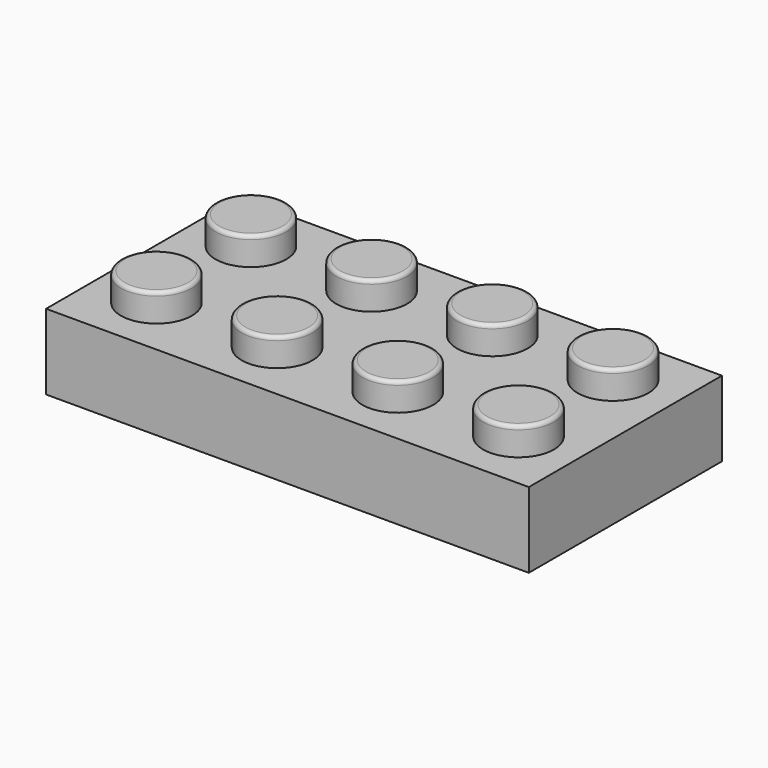
from build123d import *

# Parameters (mm, degrees)
F0_W     = 32.004
F0_H     = 16.002
F1_DEPTH = 5.0038
F2_R     = 2.3495
F3_DEPTH = 1.8542
F4_R     = 0.254


with BuildPart() as f1:
    # F0 (on Top) → F1 (new body)
    with BuildSketch(Plane.XY):
        with Locations((16.002, -8.001)):
            Rectangle(F0_W, F0_H)
    extrude(amount=F1_DEPTH)

    # F2 (on face) → F3 (join)
    with BuildSketch(Plane.XY.offset(5.0038)):
        with Locations((3.8989, -3.8989)):
            Circle(F2_R)
        with Locations((11.8999, -3.8989)):
            Circle(F2_R)
        with Locations((19.9009, -3.8989)):
            Circle(F2_R)
        with Locations((27.9019, -3.8989)):
            Circle(F2_R)
        with Locations((4.033439, -11.898769)):
            Circle(F2_R)
        with Locations((12.034439, -11.898769)):
            Circle(F2_R)
        with Locations((20.035439, -11.898769)):
            Circle(F2_R)
        with Locations((28.036439, -11.898769)):
            Circle(F2_R)
    extrude(amount=F3_DEPTH)

    # F4
    f4_edges = [f1.edges().sort_by_distance(p)[0] for p in [
        (1.5494, -3.8989, 6.858),
        (9.5504, -3.8989, 6.858),
        (17.5514, -3.8989, 6.858),
        (25.5524, -3.8989, 6.858),
        (25.686939, -11.898769, 6.858),
        (17.685939, -11.898769, 6.858),
        (9.684939, -11.898769, 6.858),
        (1.683939, -11.898769, 6.858),
    ]]
    fillet(f4_edges, radius=F4_R)


solid = f1.part
